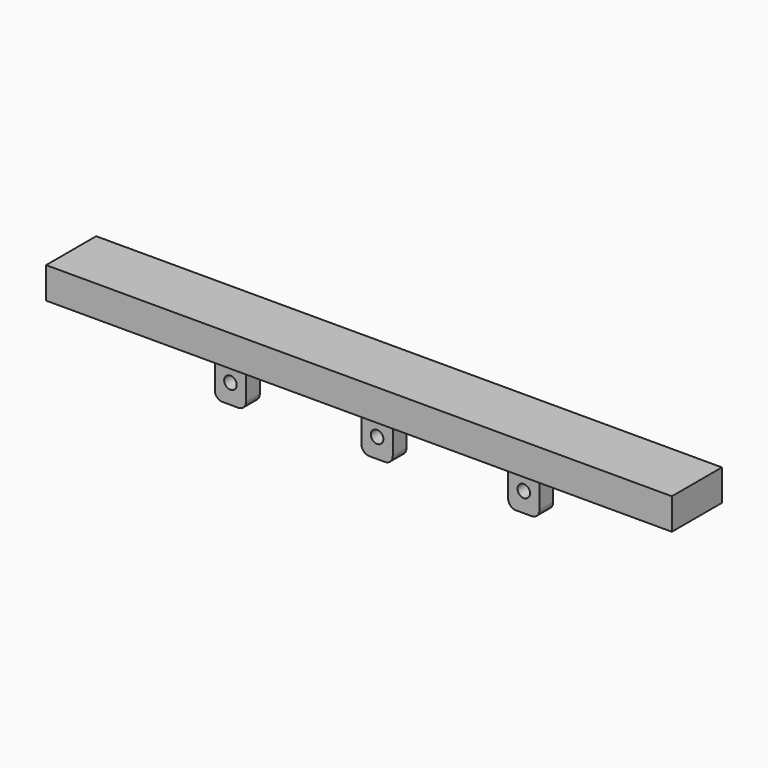
from build123d import *

# Parameters (mm, degrees)
F1_DEPTH = 8
F2_W     = 4
F2_H     = 2.2
F3_DEPTH = 6
F4_R     = 0.8
F5_DEPTH = 5.101
F6_R     = 1


with BuildPart() as f1:
    # F0 (on Front) → F1 (new body)
    with BuildSketch(Plane.XZ):
        Polygon((-40, 4), (-40, 0), (0, 0), (40, 0), (40, 4), (0, 4), align=None)
    extrude(amount=F1_DEPTH)

    # F2 (on face) → F3 (join)
    with BuildSketch(Plane(origin=(0, 0, 0), x_dir=(1, 0, 0), z_dir=(0, 0, -1))):
        with Locations((-18.75, 4)):
            Rectangle(F2_W, F2_H)
        with Locations((18.75, 4)):
            Rectangle(F2_W, F2_H)
        with Locations((0, 4)):
            Rectangle(F2_W, F2_H)
    extrude(amount=F3_DEPTH)

    # F4 (on face) → F5 (cut, through all)
    with BuildSketch(Plane(origin=(0, -2.9, 0), x_dir=(-1, 0, 0), z_dir=(0, 1, 0))):
        with Locations((-18.75, -3.5)):
            Circle(F4_R)
        with Locations((18.75, -3.5)):
            Circle(F4_R)
        with Locations((0, -3.5)):
            Circle(F4_R)
    extrude(amount=-F5_DEPTH, mode=Mode.SUBTRACT)

    # F6
    f6_edges = [f1.edges().sort_by_distance(p)[0] for p in [
        (20.75, -4, -6),
        (16.75, -4, -6),
        (-16.75, -4, -6),
        (-20.75, -4, -6),
        (-2, -4, -6),
        (2, -4, -6),
    ]]
    fillet(f6_edges, radius=F6_R)


solid = f1.part
